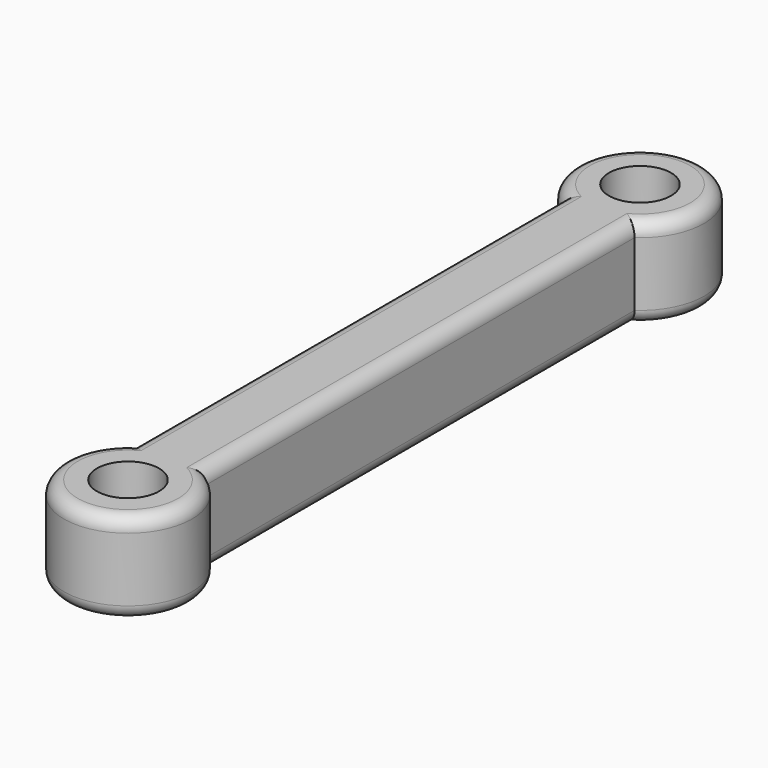
from build123d import *

# Parameters (mm, degrees)
SKETCH_R  = 1.7
PAD_DEPTH = 5
FILLET_R  = 0.75


with BuildPart() as part:
    # Sketch → Pad (new body)
    with BuildSketch(Plane.XY):
        with BuildLine():
            ThreePointArc((2, 32.127719), (0, 38.5), (-2, 32.127719))
            Line((-2, 32.127719), (-2, 2.872281))
            ThreePointArc((-2, 2.872281), (0, -3.5), (2, 2.872281))
            Line((2, 32.127719), (2, 2.872281))
        make_face()
        Circle(SKETCH_R, mode=Mode.SUBTRACT)
        with Locations((0, 35)):
            Circle(SKETCH_R, mode=Mode.SUBTRACT)
    extrude(amount=PAD_DEPTH)

    # Fillet
    fillet_edges = [part.edges().sort_by_distance(p)[0] for p in [
        (0, -3.5, 5),
        (0, -3.5, 0),
        (2, 17.5, 5),
        (2, 17.5, 0),
        (-2, 17.5, 5),
        (0, 38.5, 5),
        (0, 38.5, 0),
        (-2, 17.5, 0),
    ]]
    fillet(fillet_edges, radius=FILLET_R)


solid = part.part
